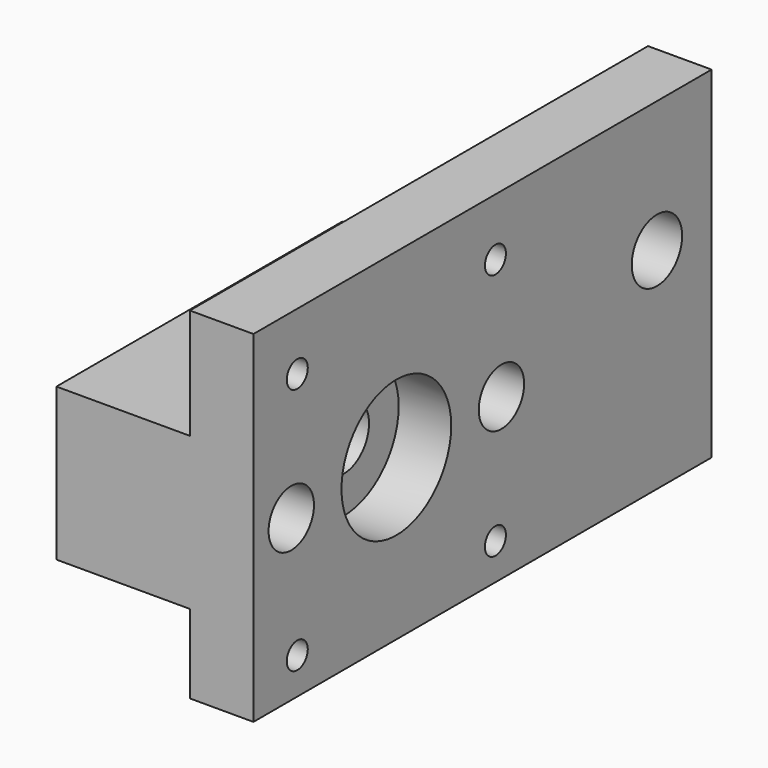
from build123d import *

# Parameters (mm, degrees)
SKETCH006_W     = 109
SKETCH006_H     = 65
SKETCH006_R     = 2.5
SKETCH006_R_2   = 6
SKETCH006_R_3   = 3.5
PAD_DEPTH       = 37.5
SKETCH010_W     = 21
SKETCH010_H     = 25.4
SKETCH010_W_2   = 15
POCKET_DEPTH    = 109
SKETCH011_W     = 41
SKETCH011_H     = 25.4
POCKET001_DEPTH = 29
SKETCH009_R     = 2.5
SKETCH009_R_2   = 6
POCKET002_DEPTH = 13
SKETCH008_R     = 4
POCKET003_DEPTH = 5
SKETCH001_R     = 5.4
POCKET004_DEPTH = 20
SKETCH007_R     = 13.05
POCKET005_DEPTH = 10


with BuildPart() as part:
    # Sketch006 → Pad (new body)
    with BuildSketch(Plane.YZ.offset(25)):
        with Locations((20.5, -10.5)):
            Rectangle(SKETCH006_W, SKETCH006_H)
        with Locations((-23.57, -36.07)):
            Circle(SKETCH006_R, mode=Mode.SUBTRACT)
        with Locations((23.57, -36.07)):
            Circle(SKETCH006_R, mode=Mode.SUBTRACT)
        with Locations((0, -12.5)):
            Circle(SKETCH006_R_2, mode=Mode.SUBTRACT)
        with Locations((25, -12.5)):
            Circle(SKETCH006_R_3, mode=Mode.SUBTRACT)
        with Locations((-25, -12.5)):
            Circle(SKETCH006_R_3, mode=Mode.SUBTRACT)
    extrude(amount=PAD_DEPTH)

    # Sketch010 → Pocket (cut)
    with BuildSketch(Plane(origin=(25, -34, 0), x_dir=(0, 0, -1), z_dir=(0, -1, 0))):
        with Locations((-11.5, 12.7)):
            Rectangle(SKETCH010_W, SKETCH010_H)
        with Locations((35.5, 12.7)):
            Rectangle(SKETCH010_W_2, SKETCH010_H)
    extrude(amount=-POCKET_DEPTH, mode=Mode.SUBTRACT)

    # Sketch011 → Pocket001 (cut)
    with BuildSketch(Plane(origin=(25, 0, -28), x_dir=(0, 1, 0), z_dir=(0, 0, -1))):
        with Locations((54.5, 12.7)):
            Rectangle(SKETCH011_W, SKETCH011_H)
    extrude(amount=-POCKET001_DEPTH, mode=Mode.SUBTRACT)

    # Sketch009 → Pocket002 (cut)
    with BuildSketch(Plane.YZ.offset(62.5)):
        with Locations((-23.57, 11.07)):
            Circle(SKETCH009_R)
        with Locations((23.57, 11.07)):
            Circle(SKETCH009_R)
        with Locations((62, -3)):
            Circle(SKETCH009_R_2)
    extrude(amount=-POCKET002_DEPTH, mode=Mode.SUBTRACT)

    # Sketch008 → Pocket003 (cut)
    with BuildSketch(Plane(origin=(50.4, 0, 0), x_dir=(0, 1, 0), z_dir=(-1, 0, 0))):
        with Locations((-23.57, -11.07)):
            Circle(SKETCH008_R)
        with Locations((23.57, -11.07)):
            Circle(SKETCH008_R)
        with Locations((-23.57, 36.07)):
            Circle(SKETCH008_R)
        with Locations((23.57, 36.07)):
            Circle(SKETCH008_R)
    extrude(amount=-POCKET003_DEPTH, mode=Mode.SUBTRACT)

    # Sketch001 → Pocket004 (cut)
    with BuildSketch(Plane.YZ.offset(62.5)):
        with Locations((-25, -12.5)):
            Circle(SKETCH001_R)
        with Locations((25, -12.5)):
            Circle(SKETCH001_R)
    extrude(amount=-POCKET004_DEPTH, mode=Mode.SUBTRACT)

    # Sketch007 → Pocket005 (cut)
    with BuildSketch(Plane.YZ.offset(62.5)):
        with Locations((0, -12.5)):
            Circle(SKETCH007_R)
    extrude(amount=-POCKET005_DEPTH, mode=Mode.SUBTRACT)


solid = part.part
